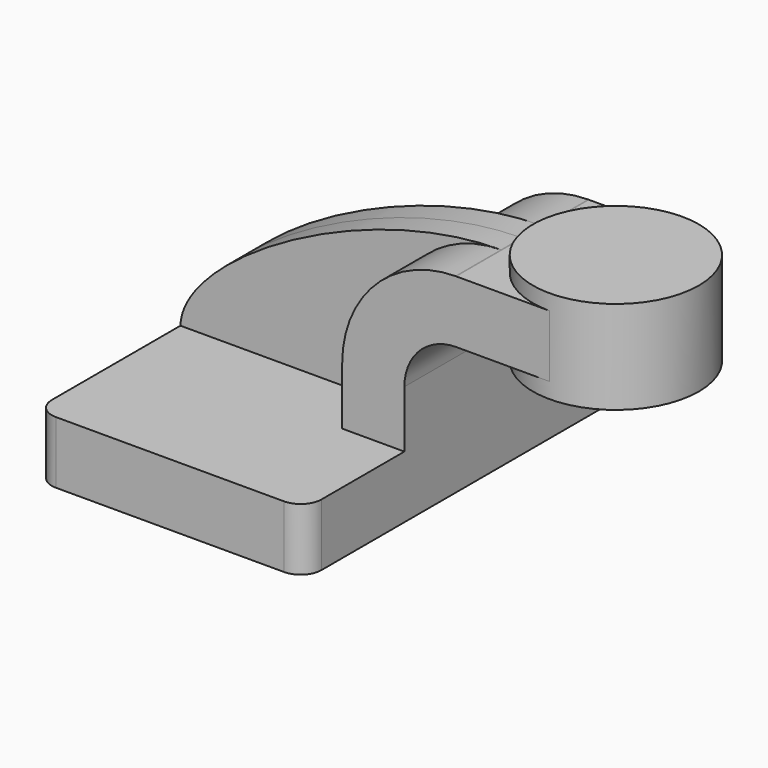
from build123d import *

# Parameters (mm, degrees)
F1_DEPTH = 63.5
F0_W     = 25.4
F0_H     = 19.05
F2_DEPTH = 25.4
F3_DEPTH = 7.9375
F5_R     = 6.35


with BuildPart() as f1:
    # F0 (on Front) → F1 (new body, symmetric)
    with BuildSketch(Plane.XZ):
        Polygon((-41.275, 9.525), (-41.275, -9.525), (41.275, -9.525), (41.275, 9.525), (22.225, 9.525), align=None)
    extrude(amount=F1_DEPTH, both=True)

    # F0 (on Front) → F2 (join, symmetric)
    with BuildSketch(Plane.XZ):
        with BuildLine():
            Line((22.225, 9.525), (41.275, 9.525))
            Line((41.275, 9.525), (41.275, 27.0002))
            ThreePointArc((41.275, 27.0002), (45.9246798487, 38.2255201513), (57.15, 42.8752))
            Line((57.15, 42.8752), (60.325, 42.8752))
            Line((60.325, 42.8752), (60.325, 61.9252))
            Line((60.325, 61.9252), (57.15, 61.9252))
            ThreePointArc((57.15, 61.9252), (57.0327801624, 61.9250032852), (56.9155616453, 61.924413143))
            ThreePointArc((56.9155616453, 61.924413143), (32.3715478234, 51.6128782925), (22.225, 27.0002))
            Line((22.225, 27.0002), (22.225, 9.525))
        make_face()
        with Locations((73.025, 52.4002)):
            Rectangle(F0_W, F0_H)
    extrude(amount=F2_DEPTH, both=True)

    # F0 (on Front) → F3 (join, symmetric)
    with BuildSketch(Plane.XZ):
        with BuildLine():
            add(Edge.make_bspline(
                [(-41.275, 9.525), (-40.772556892, 29.51723469), (13.8574212283, 61.721808406), (56.9155616453, 61.924413143)],
                knots=[0, 0, 0, 0, 111.3024346727, 111.3024346727, 111.3024346727, 111.3024346727], degree=3))
            Line((-41.275, 9.525), (22.225, 9.525))
            Line((22.225, 9.525), (22.225, 27.0002))
            ThreePointArc((22.225, 27.0002), (32.3715478234, 51.6128782925), (56.9155616453, 61.924413143))
        make_face()
    extrude(amount=F3_DEPTH, both=True)

    # F0 (on Front) → F4 (revolve)
    with BuildSketch(Plane.XZ):
        Polygon((85.725, 66.675), (85.725, 61.9252), (85.725, 42.8752), (85.725, 38.1), (111.125, 38.1), (111.125, 66.675), align=None)
    revolve(axis=Axis((85.725, 0, 52.3875), (0, 0, 1)))

    # F5
    f5_edges = [f1.edges().sort_by_distance(p)[0] for p in [
        (41.275, -63.5, 0),
        (41.275, 63.5, 0),
        (-41.275, -63.5, 0),
        (-41.275, 63.5, 0),
    ]]
    fillet(f5_edges, radius=F5_R)


solid = f1.part
